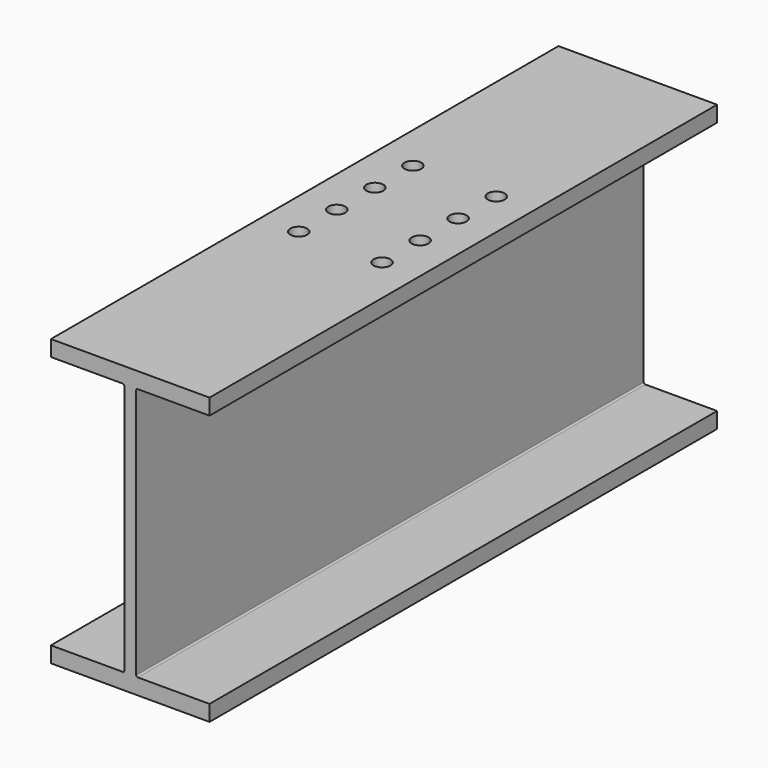
from build123d import *

# Parameters (mm, degrees)
F1_DEPTH = 508
F3_D     = 26.9875
F3_DEPTH = 25.4


with BuildPart() as f1:
    # F0 (on Front) → F1 (new body, symmetric)
    with BuildSketch(Plane.XZ):
        with BuildLine():
            Line((127, -228.6), (127, -203.2))
            Line((127, -203.2), (12.065, -203.2))
            ThreePointArc((12.065, -203.2), (10.268949, -202.456051), (9.525, -200.66))
            Line((9.525, -200.66), (9.525, 200.66))
            ThreePointArc((9.525, 200.66), (10.268949, 202.456051), (12.065, 203.2))
            Line((12.065, 203.2), (127, 203.2))
            Line((127, 203.2), (127, 228.6))
            Line((127, 228.6), (-127, 228.6))
            Line((-127, 228.6), (-127, 203.2))
            Line((-127, 203.2), (-12.065, 203.2))
            ThreePointArc((-12.065, 203.2), (-10.268949, 202.456051), (-9.525, 200.66))
            Line((-9.525, 200.66), (-9.525, -200.66))
            ThreePointArc((-9.525, -200.66), (-10.268949, -202.456051), (-12.065, -203.2))
            Line((-12.065, -203.2), (-127, -203.2))
            Line((-127, -203.2), (-127, -228.6))
            Line((-127, -228.6), (127, -228.6))
        make_face()
    extrude(amount=F1_DEPTH, both=True)

    # F3
    with Locations(Plane.XY.offset(228.6)):
        with Locations((-66.675, 141.293497), (-66.675, 65.093497), (-66.675, -11.106503), (-66.675, -87.306503), (66.675, -87.306503), (66.675, -11.106503), (66.675, 65.093497), (66.675, 141.293497)):
            Hole(F3_D / 2, depth=F3_DEPTH)


solid = f1.part
